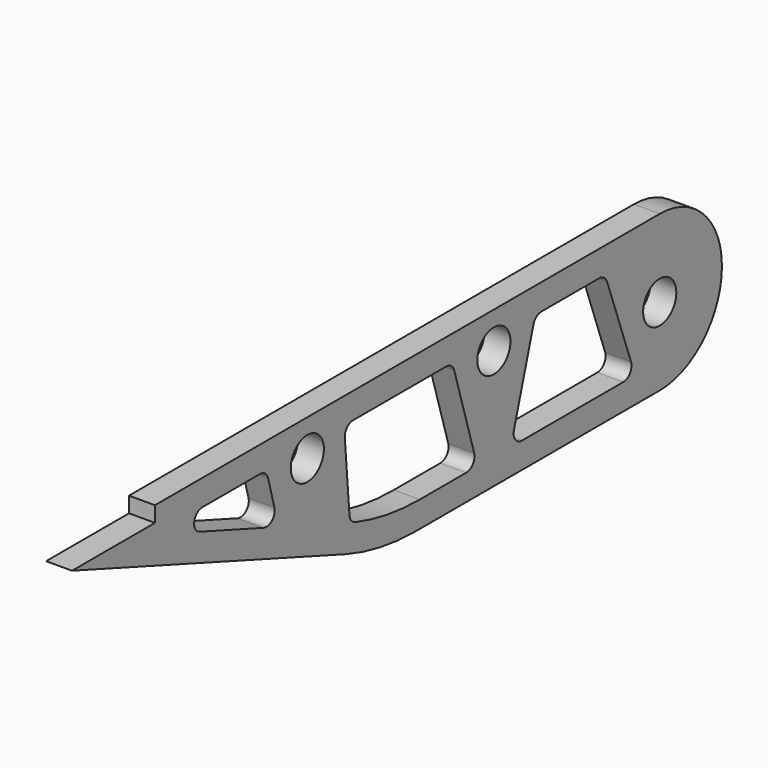
from build123d import *

# Parameters (mm, degrees)
F0_R     = 4
F1_DEPTH = 5
F3_DEPTH = 25


with BuildPart() as f1:
    # F0 (on Right) → F1 (new body)
    with BuildSketch(Plane.YZ):
        with BuildLine():
            Line((50, 15), (-71.757568, 15))
            Line((-71.757568, 15), (-71.757568, 12))
            Line((-71.757568, 12), (-91.757568, 12))
            Line((-91.757568, 12), (-25.860336, -11.984631))
            ThreePointArc((-25.860336, -11.984631), (-17.441737, -14.240388), (-8.759328, -15))
            Line((-8.759328, -15), (50, -15))
            ThreePointArc((50, -15), (65, 0), (50, 15))
        make_face()
        with Locations((-35, 8)):
            Circle(F0_R, mode=Mode.SUBTRACT)
        with Locations((50, 0)):
            Circle(F0_R, mode=Mode.SUBTRACT)
        with Locations((10, 8)):
            Circle(F0_R, mode=Mode.SUBTRACT)
    extrude(amount=F1_DEPTH)

    # F2 (on face) → F3 (cut)
    with BuildSketch(Plane.YZ.offset(5)):
        with BuildLine():
            Line((-1.486905, 10), (-23.962487, 10))
            ThreePointArc((-23.962487, 10), (-25.433797, 9.354714), (-25.95569, 7.835249))
            Line((-25.95569, 7.835249), (-24.8308, -5.773975))
            ThreePointArc((-24.8308, -5.773975), (-24.407522, -6.84831), (-23.460926, -7.509608))
            ThreePointArc((-23.460926, -7.509608), (-15.768181, -9.373477), (-7.877693, -10))
            Line((-7.877693, -10), (3.326078, -10))
            ThreePointArc((3.326078, -10), (4.931108, -9.193264), (5.241303, -7.423879))
            Line((5.241303, -7.423879), (0.428319, 8.576121))
            ThreePointArc((0.428319, 8.576121), (-0.293641, 9.60503), (-1.486905, 10))
        make_face()
        with BuildLine():
            Line((19.548792, 8.565117), (14.8358, -7.434883))
            ThreePointArc((14.8358, -7.434883), (15.152702, -9.197866), (16.7543, -10))
            Line((16.7543, -10), (41.199727, -10))
            ThreePointArc((41.199727, -10), (42.837305, -9.148189), (43.079976, -7.318339))
            Line((43.079976, -7.318339), (37.279371, 8.681661))
            ThreePointArc((37.279371, 8.681661), (36.547311, 9.637578), (35.399122, 10))
            Line((35.399122, 10), (21.467292, 10))
            ThreePointArc((21.467292, 10), (20.269426, 9.601598), (19.548792, 8.565117))
        make_face()
        with BuildLine():
            ThreePointArc((-44.478897, 8.52976), (-45.194925, 9.590522), (-46.407459, 10))
            Line((-46.407459, 10), (-60.301027, 10))
            ThreePointArc((-60.301027, 10), (-62.270643, 8.347296), (-60.985068, 6.120615))
            Line((-60.985068, 6.120615), (-45.548119, 0.502025))
            ThreePointArc((-45.548119, 0.502025), (-43.508275, 0.911106), (-42.935516, 2.911171))
            Line((-42.935516, 2.911171), (-44.478897, 8.52976))
        make_face()
    extrude(amount=-F3_DEPTH, mode=Mode.SUBTRACT)


solid = f1.part
